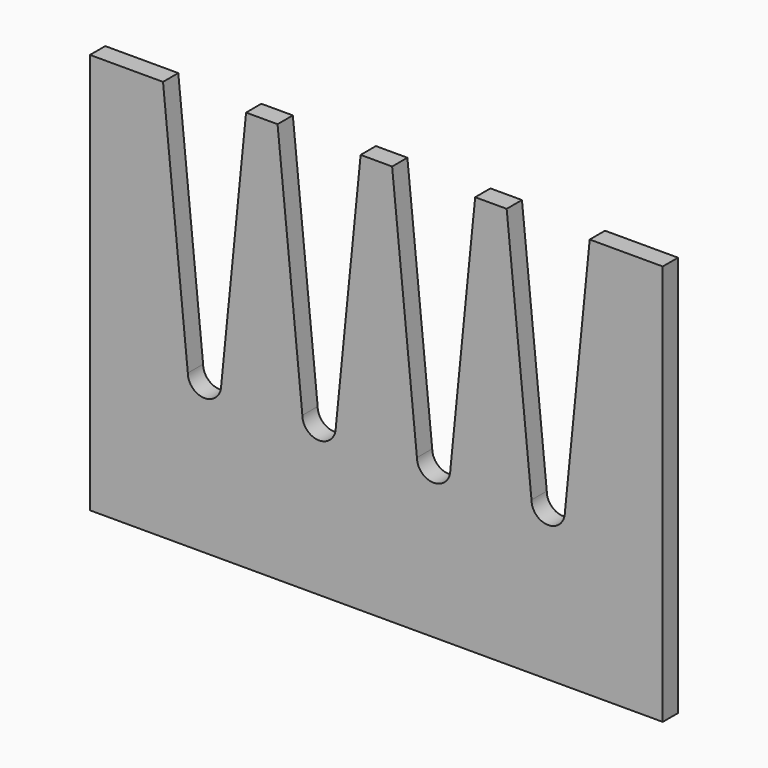
from build123d import *

# Parameters (mm, degrees)
F0_W     = 190.5
F0_H     = 38.1
F1_DEPTH = 6.35


with BuildPart() as f1:
    # F0 (on Front) → F1 (new body)
    with BuildSketch(Plane.XZ):
        with BuildLine():
            Line((-70.64375, 21.040363), (-70.64375, -23.409637))
            Line((-70.64375, -23.409637), (119.85625, -23.409637))
            Line((119.85625, -23.409637), (119.85625, 21.040363))
            Line((119.85625, 21.040363), (119.85625, 71.840363))
            Line((119.85625, 71.840363), (95.5675, 71.840363))
            Line((95.5675, 71.840363), (90.4875, 21.040363))
            Line((90.4875, 21.040363), (87.3125, -10.709637))
            ThreePointArc((87.3125, -10.709637), (81.75625, -16.265887), (76.2, -10.709637))
            Line((76.2, -10.709637), (73.025, 21.040363))
            Line((73.025, 21.040363), (67.945, 71.840363))
            Line((67.945, 71.840363), (57.4675, 71.840363))
            Line((57.4675, 71.840363), (52.3875, 21.040363))
            Line((52.3875, 21.040363), (49.2125, -10.709637))
            ThreePointArc((49.2125, -10.709637), (43.65625, -16.265887), (38.1, -10.709637))
            Line((38.1, -10.709637), (34.925, 21.040363))
            Line((34.925, 21.040363), (29.845, 71.840363))
            Line((29.845, 71.840363), (19.3675, 71.840363))
            Line((19.3675, 71.840363), (14.2875, 21.040363))
            Line((14.2875, 21.040363), (11.1125, -10.709637))
            ThreePointArc((11.1125, -10.709637), (5.55625, -16.265887), (0, -10.709637))
            Line((0, -10.709637), (-3.175, 21.040363))
            Line((-3.175, 21.040363), (-8.255, 71.840363))
            Line((-8.255, 71.840363), (-18.7325, 71.840363))
            Line((-18.7325, 71.840363), (-23.8125, 21.040363))
            Line((-23.8125, 21.040363), (-26.9875, -10.709637))
            ThreePointArc((-26.9875, -10.709637), (-32.54375, -16.265887), (-38.1, -10.709637))
            Line((-38.1, -10.709637), (-41.275, 21.040363))
            Line((-41.275, 21.040363), (-46.355, 71.840363))
            Line((-46.355, 71.840363), (-70.64375, 71.840363))
            Line((-70.64375, 71.840363), (-70.64375, 21.040363))
        make_face()
        with Locations((24.60625, -42.459637)):
            Rectangle(F0_W, F0_H)
    extrude(amount=F1_DEPTH)


solid = f1.part
